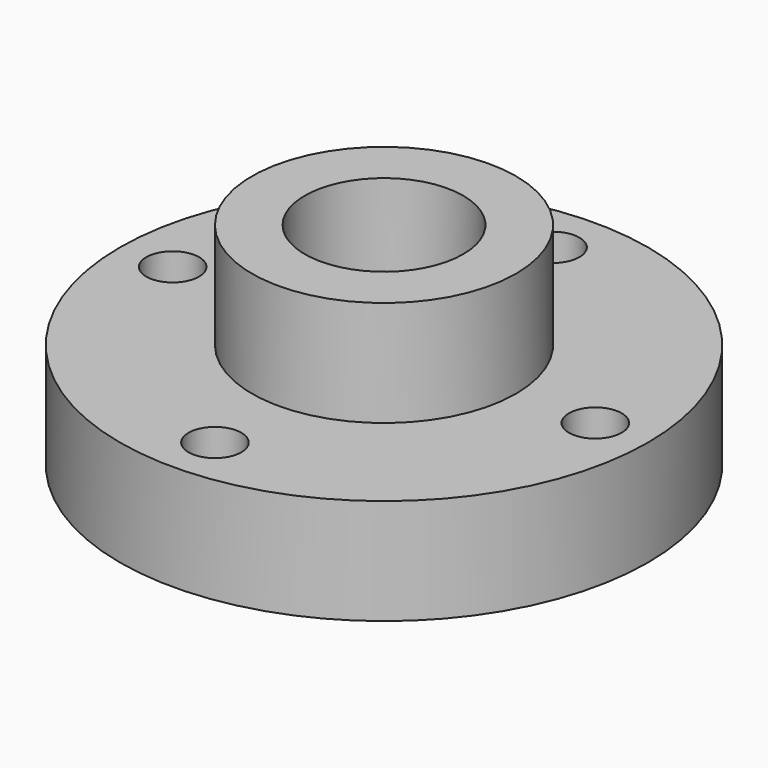
from build123d import *

# Parameters (mm, degrees)
F0_R     = 31.75
F0_R_2   = 3.175
F0_R_3   = 15.875
F1_DEPTH = 6.35
F0_R_4   = 9.525
F2_DEPTH = 19.05


with BuildPart() as f1:
    # F0 (on Top) → F1 (new body, symmetric)
    with BuildSketch(Plane.XY):
        Circle(F0_R)
        with Locations((0, -25.4)):
            Circle(F0_R_2, mode=Mode.SUBTRACT)
        with Locations((-25.4, 0)):
            Circle(F0_R_2, mode=Mode.SUBTRACT)
        Circle(F0_R_3, mode=Mode.SUBTRACT)
        with Locations((25.4, 0)):
            Circle(F0_R_2, mode=Mode.SUBTRACT)
        with Locations((0, 25.4)):
            Circle(F0_R_2, mode=Mode.SUBTRACT)
    extrude(amount=F1_DEPTH, both=True)

    # F0 (on Top) → F2 (join)
    with BuildSketch(Plane.XY):
        Circle(F0_R_3)
        Circle(F0_R_4, mode=Mode.SUBTRACT)
    extrude(amount=F2_DEPTH)


solid = f1.part
